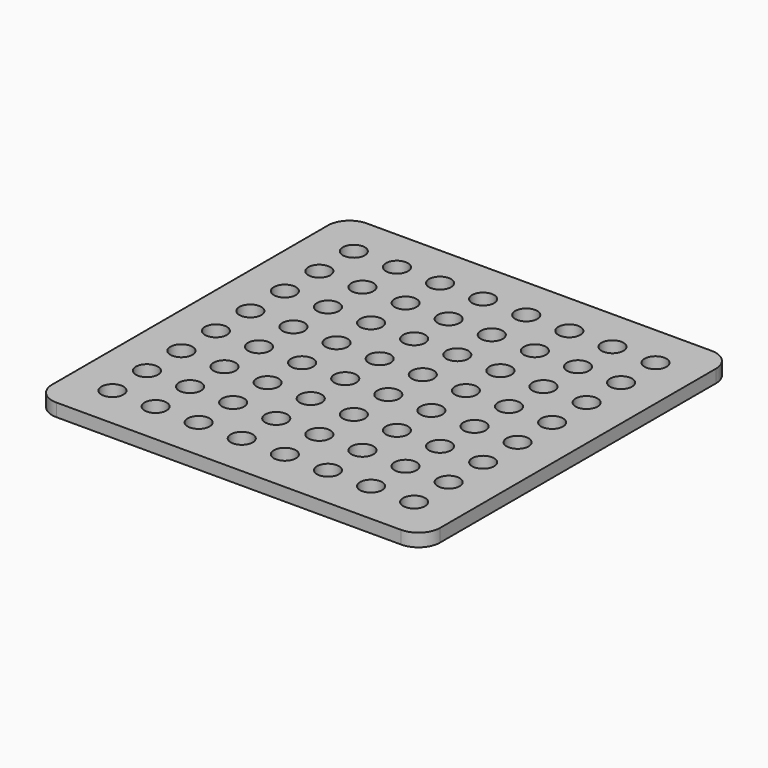
from build123d import *

# Parameters (mm, degrees)
F0_R     = 2.55
F1_DEPTH = 3


with BuildPart() as f1:
    # F0 (on Top) → F1 (new body)
    with BuildSketch(Plane.XY):
        with BuildLine():
            Line((45, 50), (-35, 50))
            ThreePointArc((-35, 50), (-38.535534, 48.535534), (-40, 45))
            Line((-40, 45), (-40, -35))
            ThreePointArc((-40, -35), (-38.535534, -38.535534), (-35, -40))
            Line((-35, -40), (45, -40))
            ThreePointArc((45, -40), (48.535534, -38.535534), (50, -35))
            Line((50, -35), (50, 45))
            ThreePointArc((50, 45), (48.535534, 48.535534), (45, 50))
        make_face()
        with Locations((-30, -30)):
            Circle(F0_R, mode=Mode.SUBTRACT)
        with Locations((-20, -30)):
            Circle(F0_R, mode=Mode.SUBTRACT)
        with Locations((-30, -20)):
            Circle(F0_R, mode=Mode.SUBTRACT)
        with Locations((-20, -20)):
            Circle(F0_R, mode=Mode.SUBTRACT)
        with Locations((-10, -30)):
            Circle(F0_R, mode=Mode.SUBTRACT)
        with Locations((0, -30)):
            Circle(F0_R, mode=Mode.SUBTRACT)
        with Locations((-10, -20)):
            Circle(F0_R, mode=Mode.SUBTRACT)
        with Locations((0, -20)):
            Circle(F0_R, mode=Mode.SUBTRACT)
        with Locations((-30, -10)):
            Circle(F0_R, mode=Mode.SUBTRACT)
        with Locations((-20, -10)):
            Circle(F0_R, mode=Mode.SUBTRACT)
        with Locations((-30, 0)):
            Circle(F0_R, mode=Mode.SUBTRACT)
        with Locations((-20, 0)):
            Circle(F0_R, mode=Mode.SUBTRACT)
        with Locations((-10, -10)):
            Circle(F0_R, mode=Mode.SUBTRACT)
        with Locations((0, -10)):
            Circle(F0_R, mode=Mode.SUBTRACT)
        with Locations((-10, 0)):
            Circle(F0_R, mode=Mode.SUBTRACT)
        Circle(F0_R, mode=Mode.SUBTRACT)
        with Locations((10, -30)):
            Circle(F0_R, mode=Mode.SUBTRACT)
        with Locations((20, -30)):
            Circle(F0_R, mode=Mode.SUBTRACT)
        with Locations((10, -20)):
            Circle(F0_R, mode=Mode.SUBTRACT)
        with Locations((20, -20)):
            Circle(F0_R, mode=Mode.SUBTRACT)
        with Locations((30, -30)):
            Circle(F0_R, mode=Mode.SUBTRACT)
        with Locations((40, -30)):
            Circle(F0_R, mode=Mode.SUBTRACT)
        with Locations((30, -20)):
            Circle(F0_R, mode=Mode.SUBTRACT)
        with Locations((40, -20)):
            Circle(F0_R, mode=Mode.SUBTRACT)
        with Locations((10, -10)):
            Circle(F0_R, mode=Mode.SUBTRACT)
        with Locations((20, -10)):
            Circle(F0_R, mode=Mode.SUBTRACT)
        with Locations((10, 0)):
            Circle(F0_R, mode=Mode.SUBTRACT)
        with Locations((20, 0)):
            Circle(F0_R, mode=Mode.SUBTRACT)
        with Locations((30, -10)):
            Circle(F0_R, mode=Mode.SUBTRACT)
        with Locations((40, -10)):
            Circle(F0_R, mode=Mode.SUBTRACT)
        with Locations((30, 0)):
            Circle(F0_R, mode=Mode.SUBTRACT)
        with Locations((40, 0)):
            Circle(F0_R, mode=Mode.SUBTRACT)
        with Locations((-30, 10)):
            Circle(F0_R, mode=Mode.SUBTRACT)
        with Locations((-20, 10)):
            Circle(F0_R, mode=Mode.SUBTRACT)
        with Locations((-30, 20)):
            Circle(F0_R, mode=Mode.SUBTRACT)
        with Locations((-20, 20)):
            Circle(F0_R, mode=Mode.SUBTRACT)
        with Locations((-10, 10)):
            Circle(F0_R, mode=Mode.SUBTRACT)
        with Locations((0, 10)):
            Circle(F0_R, mode=Mode.SUBTRACT)
        with Locations((-10, 20)):
            Circle(F0_R, mode=Mode.SUBTRACT)
        with Locations((0, 20)):
            Circle(F0_R, mode=Mode.SUBTRACT)
        with Locations((-30, 30)):
            Circle(F0_R, mode=Mode.SUBTRACT)
        with Locations((-20, 30)):
            Circle(F0_R, mode=Mode.SUBTRACT)
        with Locations((-30, 40)):
            Circle(F0_R, mode=Mode.SUBTRACT)
        with Locations((-20, 40)):
            Circle(F0_R, mode=Mode.SUBTRACT)
        with Locations((-10, 30)):
            Circle(F0_R, mode=Mode.SUBTRACT)
        with Locations((0, 30)):
            Circle(F0_R, mode=Mode.SUBTRACT)
        with Locations((-10, 40)):
            Circle(F0_R, mode=Mode.SUBTRACT)
        with Locations((0, 40)):
            Circle(F0_R, mode=Mode.SUBTRACT)
        with Locations((10, 10)):
            Circle(F0_R, mode=Mode.SUBTRACT)
        with Locations((20, 10)):
            Circle(F0_R, mode=Mode.SUBTRACT)
        with Locations((10, 20)):
            Circle(F0_R, mode=Mode.SUBTRACT)
        with Locations((20, 20)):
            Circle(F0_R, mode=Mode.SUBTRACT)
        with Locations((30, 10)):
            Circle(F0_R, mode=Mode.SUBTRACT)
        with Locations((40, 10)):
            Circle(F0_R, mode=Mode.SUBTRACT)
        with Locations((30, 20)):
            Circle(F0_R, mode=Mode.SUBTRACT)
        with Locations((40, 20)):
            Circle(F0_R, mode=Mode.SUBTRACT)
        with Locations((10, 30)):
            Circle(F0_R, mode=Mode.SUBTRACT)
        with Locations((20, 30)):
            Circle(F0_R, mode=Mode.SUBTRACT)
        with Locations((10, 40)):
            Circle(F0_R, mode=Mode.SUBTRACT)
        with Locations((20, 40)):
            Circle(F0_R, mode=Mode.SUBTRACT)
        with Locations((30, 30)):
            Circle(F0_R, mode=Mode.SUBTRACT)
        with Locations((40, 30)):
            Circle(F0_R, mode=Mode.SUBTRACT)
        with Locations((30, 40)):
            Circle(F0_R, mode=Mode.SUBTRACT)
        with Locations((40, 40)):
            Circle(F0_R, mode=Mode.SUBTRACT)
    extrude(amount=F1_DEPTH)


solid = f1.part
